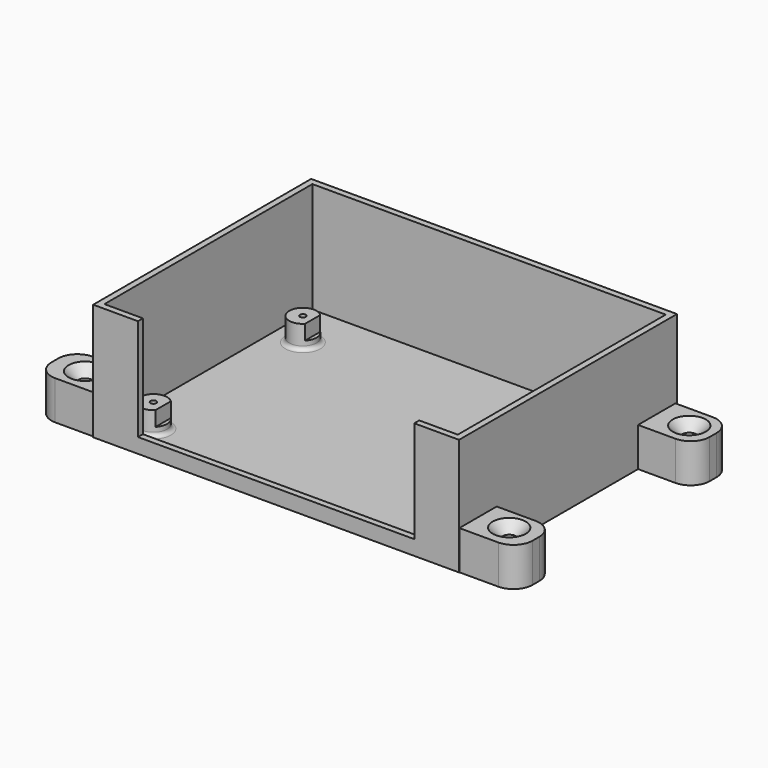
from build123d import *

# Parameters (mm, degrees)
BOX001_W          = 71
BOX001_H          = 67
BOX001_DEPTH      = 30
CYLINDER001_R     = 1.5
CYLINDER001_DEPTH = 10
CYLINDER002_R     = 1.5
CYLINDER002_DEPTH = 10
CYLINDER003_R     = 1.5
CYLINDER003_DEPTH = 10
CYLINDER_R        = 1.5
CYLINDER_DEPTH    = 10
BOX_W             = 86
BOX_H             = 58
BOX_DEPTH         = 1.5
BOX002_W          = 94
BOX002_H          = 70
BOX002_DEPTH      = 30
THICKNESS_T       = -1.6
CYLINDER005_R     = 0.75
CYLINDER005_DEPTH = 10
CYLINDER004_R     = 3.5
CYLINDER004_DEPTH = 6
CYLINDER007_R     = 0.75
CYLINDER007_DEPTH = 10
CYLINDER006_R     = 3.5
CYLINDER006_DEPTH = 6
CYLINDER009_R     = 0.75
CYLINDER009_DEPTH = 10
CYLINDER008_R     = 3.5
CYLINDER008_DEPTH = 6
CYLINDER010_R     = 0.75
CYLINDER010_DEPTH = 10
CYLINDER011_R     = 3.5
CYLINDER011_DEPTH = 6
FILLET_R          = 1
FILLET001_R       = 1
CYLINDER014_R     = 1.75
CYLINDER014_DEPTH = 20
CYLINDER013_R     = 1.75
CYLINDER013_DEPTH = 20
CYLINDER015_R     = 1.75
CYLINDER015_DEPTH = 20
CYLINDER012_R     = 1.75
CYLINDER012_DEPTH = 20
BOX004_W          = 15
BOX004_H          = 12
BOX004_DEPTH      = 10
BOX005_W          = 15
BOX005_H          = 12
BOX005_DEPTH      = 10
BOX006_W          = 15
BOX006_H          = 12
BOX006_DEPTH      = 10
BOX003_W          = 15
BOX003_H          = 12
BOX003_DEPTH      = 10
FILLET002_R       = 4.9
FILLET003_R       = 4.9
CHAMFER_SIZE      = 2.5


with BuildPart() as obj1:
    # Box001 → Box001 (new body)
    with BuildSketch(Plane(origin=(7.49857, 58.9, 26), x_dir=(1, 0, 0), z_dir=(0, 0, -1))):
        with Locations((35.5, 33.5)):
            Rectangle(BOX001_W, BOX001_H)
    extrude(amount=BOX001_DEPTH)


with BuildPart() as zylinder001:
    # Cylinder001 → Cylinder001 (new body)
    with BuildSketch(Plane(origin=(5, 53, 0), x_dir=(1, 0, 0), z_dir=(0, 0, 1))):
        Circle(CYLINDER001_R)
    extrude(amount=CYLINDER001_DEPTH)


with BuildPart() as zylinder002:
    # Cylinder002 → Cylinder002 (new body)
    with BuildSketch(Plane(origin=(81.5, 5, 0), x_dir=(1, 0, 0), z_dir=(0, 0, 1))):
        Circle(CYLINDER002_R)
    extrude(amount=CYLINDER002_DEPTH)


with BuildPart() as zylinder003:
    # Cylinder003 → Cylinder003 (new body)
    with BuildSketch(Plane(origin=(81.5, 53, 0), x_dir=(1, 0, 0), z_dir=(0, 0, 1))):
        Circle(CYLINDER003_R)
    extrude(amount=CYLINDER003_DEPTH)


with BuildPart() as fusion:
    # Cylinder → Cylinder (new body)
    with BuildSketch(Plane(origin=(5, 5, 0), x_dir=(1, 0, 0), z_dir=(0, 0, 1))):
        Circle(CYLINDER_R)
    extrude(amount=CYLINDER_DEPTH)

    # Fusion: union Zylinder001, Zylinder002, Zylinder003
    add(zylinder001.part)
    add(zylinder002.part)
    add(zylinder003.part)


with BuildPart() as fusion001:
    # Box → Box (new body)
    with BuildSketch(Plane.XY):
        with Locations((43, 29)):
            Rectangle(BOX_W, BOX_H)
    extrude(amount=BOX_DEPTH)

    # Cut: cut Fusion
    add(fusion.part, mode=Mode.SUBTRACT)

    # Fusion001: union obj1
    add(obj1.part)


with BuildPart() as fusion001_1:
    # Fusion001 placement: moved
    add(fusion001.part.moved(Location((0, -5, 2.8))))


with BuildPart() as thickness:
    # Box002 → Box002 (new body)
    with BuildSketch(Plane(origin=(-4.00143, -8.1, -5), x_dir=(1, 0, 0), z_dir=(0, 0, 1))):
        with Locations((47, 35)):
            Rectangle(BOX002_W, BOX002_H)
    extrude(amount=BOX002_DEPTH)

    # Thickness
    thickness_openings = [thickness.faces().sort_by_distance(p)[0] for p in [
        (42.99857, 26.9, 25),
    ]]
    offset(amount=THICKNESS_T, openings=thickness_openings)


with BuildPart() as zylinder005:
    # Cylinder005 → Cylinder005 (new body)
    with BuildSketch(Plane(origin=(5, 0, -6), x_dir=(1, 0, 0), z_dir=(0, 0, 1))):
        Circle(CYLINDER005_R)
    extrude(amount=CYLINDER005_DEPTH)


with BuildPart() as cut001:
    # Cylinder004 → Cylinder004 (new body)
    with BuildSketch(Plane(origin=(5, 0, -3.4), x_dir=(1, 0, 0), z_dir=(0, 0, 1))):
        Circle(CYLINDER004_R)
    extrude(amount=CYLINDER004_DEPTH)

    # Cut001: cut Zylinder005
    add(zylinder005.part, mode=Mode.SUBTRACT)


with BuildPart() as zylinder007:
    # Cylinder007 → Cylinder007 (new body)
    with BuildSketch(Plane(origin=(5, 0, -6), x_dir=(1, 0, 0), z_dir=(0, 0, 1))):
        Circle(CYLINDER007_R)
    extrude(amount=CYLINDER007_DEPTH)


with BuildPart() as cut002:
    # Cylinder006 → Cylinder006 (new body)
    with BuildSketch(Plane(origin=(5, 0, -3.4), x_dir=(1, 0, 0), z_dir=(0, 0, 1))):
        Circle(CYLINDER006_R)
    extrude(amount=CYLINDER006_DEPTH)

    # Cut002: cut Zylinder007
    add(zylinder007.part, mode=Mode.SUBTRACT)


with BuildPart() as cut002_1:
    # Cut002 placement: moved
    add(cut002.part.moved(Location((0, 48, 0))))


with BuildPart() as zylinder009:
    # Cylinder009 → Cylinder009 (new body)
    with BuildSketch(Plane(origin=(5, 0, -6), x_dir=(1, 0, 0), z_dir=(0, 0, 1))):
        Circle(CYLINDER009_R)
    extrude(amount=CYLINDER009_DEPTH)


with BuildPart() as cut003:
    # Cylinder008 → Cylinder008 (new body)
    with BuildSketch(Plane(origin=(5, 0, -3.4), x_dir=(1, 0, 0), z_dir=(0, 0, 1))):
        Circle(CYLINDER008_R)
    extrude(amount=CYLINDER008_DEPTH)

    # Cut003: cut Zylinder009
    add(zylinder009.part, mode=Mode.SUBTRACT)


with BuildPart() as cut003_1:
    # Cut003 placement: moved
    add(cut003.part.moved(Location((76.5, 48, 0))))


with BuildPart() as zylinder010:
    # Cylinder010 → Cylinder010 (new body)
    with BuildSketch(Plane(origin=(5, 0, -6), x_dir=(1, 0, 0), z_dir=(0, 0, 1))):
        Circle(CYLINDER010_R)
    extrude(amount=CYLINDER010_DEPTH)


with BuildPart() as fillet001:
    # Cylinder011 → Cylinder011 (new body)
    with BuildSketch(Plane(origin=(5, 0, -3.4), x_dir=(1, 0, 0), z_dir=(0, 0, 1))):
        Circle(CYLINDER011_R)
    extrude(amount=CYLINDER011_DEPTH)

    # Cut004: cut Zylinder010
    add(zylinder010.part, mode=Mode.SUBTRACT)


with BuildPart() as fillet001_1:
    # Cut004 placement: moved
    add(fillet001.part.moved(Location((76.5, 0, 0))))

    # Fusion002: union Cut001, Cut002, Cut003
    add(cut001.part)
    add(cut002_1.part)
    add(cut003_1.part)

    # Fusion003: union Thickness
    add(thickness.part)

    # Fillet
    fillet_edges = [fillet001_1.edges().sort_by_distance(p)[0] for p in [
        (1.5, 48, -3.4),
        (78, 48, -3.4),
    ]]
    fillet(fillet_edges, radius=FILLET_R)

    # Fillet001
    fillet001_edges = [fillet001_1.edges().sort_by_distance(p)[0] for p in [
        (1.5, 0, -3.4),
        (78, 0, -3.4),
    ]]
    fillet(fillet001_edges, radius=FILLET001_R)


with BuildPart() as zylinder014:
    # Cylinder014 → Cylinder014 (new body)
    with BuildSketch(Plane(origin=(98.2, 55.6, -5), x_dir=(1, 0, 0), z_dir=(0, 0, 1))):
        Circle(CYLINDER014_R)
    extrude(amount=CYLINDER014_DEPTH)


with BuildPart() as zylinder013:
    # Cylinder013 → Cylinder013 (new body)
    with BuildSketch(Plane(origin=(97.7, -1.6, -5), x_dir=(1, 0, 0), z_dir=(0, 0, 1))):
        Circle(CYLINDER013_R)
    extrude(amount=CYLINDER013_DEPTH)


with BuildPart() as zylinder015:
    # Cylinder015 → Cylinder015 (new body)
    with BuildSketch(Plane(origin=(-11.2, 55.9, -5), x_dir=(1, 0, 0), z_dir=(0, 0, 1))):
        Circle(CYLINDER015_R)
    extrude(amount=CYLINDER015_DEPTH)


with BuildPart() as fusion004:
    # Cylinder012 → Cylinder012 (new body)
    with BuildSketch(Plane(origin=(-11.2, -1.7, -5), x_dir=(1, 0, 0), z_dir=(0, 0, 1))):
        Circle(CYLINDER012_R)
    extrude(amount=CYLINDER012_DEPTH)

    # Fusion004: union Zylinder014, Zylinder013, Zylinder015
    add(zylinder014.part)
    add(zylinder013.part)
    add(zylinder015.part)


with BuildPart() as obj2:
    # Box004 → Box004 (new body)
    with BuildSketch(Plane(origin=(-18.9, 49.6, -5), x_dir=(1, 0, 0), z_dir=(0, 0, 1))):
        with Locations((7.5, 6)):
            Rectangle(BOX004_W, BOX004_H)
    extrude(amount=BOX004_DEPTH)


with BuildPart() as obj3:
    # Box005 → Box005 (new body)
    with BuildSketch(Plane(origin=(89.9, -8, -5), x_dir=(1, 0, 0), z_dir=(0, 0, 1))):
        with Locations((7.5, 6)):
            Rectangle(BOX005_W, BOX005_H)
    extrude(amount=BOX005_DEPTH)


with BuildPart() as obj4:
    # Box006 → Box006 (new body)
    with BuildSketch(Plane(origin=(89.5, 49.4, -5), x_dir=(1, 0, 0), z_dir=(0, 0, 1))):
        with Locations((7.5, 6)):
            Rectangle(BOX006_W, BOX006_H)
    extrude(amount=BOX006_DEPTH)


with BuildPart() as cut006:
    # Box003 → Box003 (new body)
    with BuildSketch(Plane(origin=(-18.9, -7.8, -5), x_dir=(1, 0, 0), z_dir=(0, 0, 1))):
        with Locations((7.5, 6)):
            Rectangle(BOX003_W, BOX003_H)
    extrude(amount=BOX003_DEPTH)

    # Fusion005: union obj2, obj3, obj4
    add(obj2.part)
    add(obj3.part)
    add(obj4.part)

    # Cut005: cut Fusion004
    add(fusion004.part, mode=Mode.SUBTRACT)

    # Fusion006: union Fillet001
    add(fillet001_1.part)

    # Fillet002
    fillet002_edges = [cut006.edges().sort_by_distance(p)[0] for p in [
        (-18.9, -7.8, 0),
        (-18.9, 4.2, 0),
        (-18.9, 61.6, 0),
        (-18.9, 49.6, 0),
    ]]
    fillet(fillet002_edges, radius=FILLET002_R)

    # Fillet003
    fillet003_edges = [cut006.edges().sort_by_distance(p)[0] for p in [
        (104.9, -8, 0),
        (104.9, 4, 0),
        (104.5, 61.4, 0),
        (104.5, 49.4, 0),
    ]]
    fillet(fillet003_edges, radius=FILLET003_R)

    # Chamfer
    chamfer_edges = [cut006.edges().sort_by_distance(p)[0] for p in [
        (-12.95, 55.9, 5),
        (-12.95, -1.7, 5),
        (96.45, 55.6, 5),
        (95.95, -1.6, 5),
    ]]
    chamfer(chamfer_edges, length=CHAMFER_SIZE)

    # Cut006: cut Fusion001
    add(fusion001_1.part, mode=Mode.SUBTRACT)


solid = cut006.part
